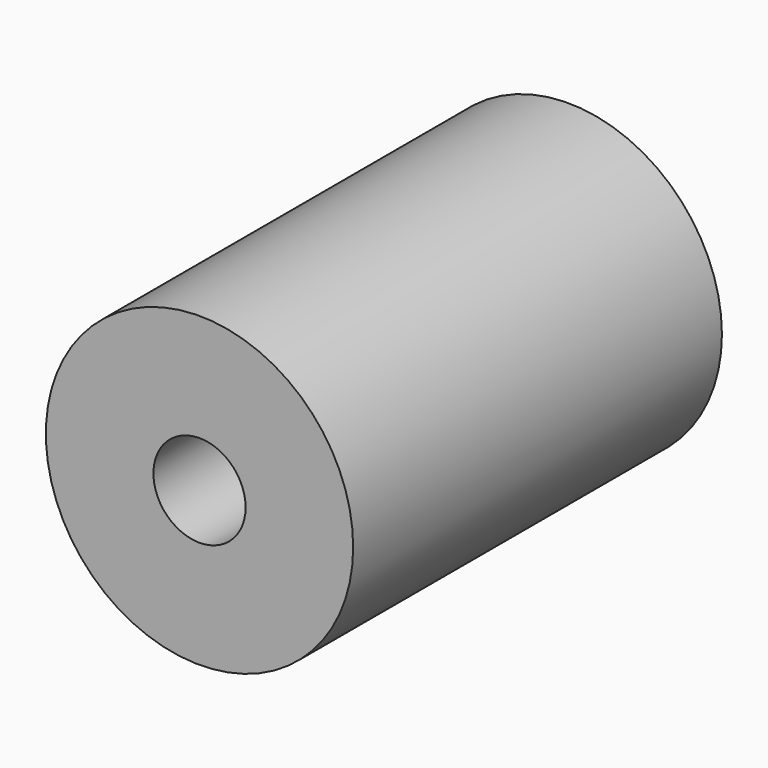
from build123d import *

# Parameters (mm, degrees)
F0_R     = 5
F0_R_2   = 1.5
F1_DEPTH = 15
F2_R     = 1.5
F3_DEPTH = 10


with BuildPart() as f1:
    # F0 (on Front) → F1 (new body)
    with BuildSketch(Plane.XZ):
        Circle(F0_R)
        Circle(F0_R_2, mode=Mode.SUBTRACT)
        Circle(F0_R_2)
    extrude(amount=-F1_DEPTH)

    # F2 (on face) → F3 (cut)
    with BuildSketch(Plane.XZ):
        Circle(F2_R)
    extrude(amount=-F3_DEPTH, mode=Mode.SUBTRACT)


solid = f1.part
